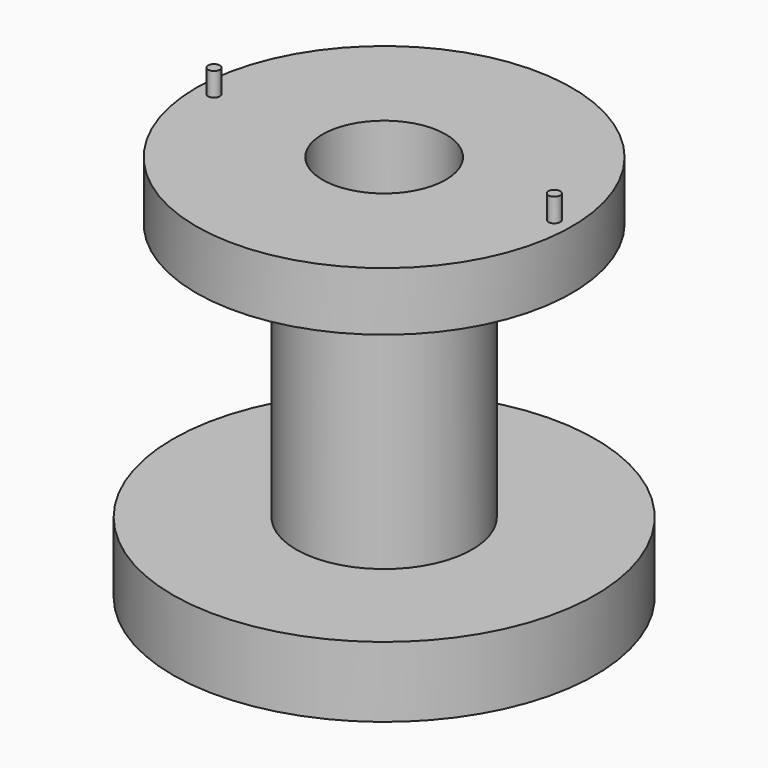
from build123d import *

# Parameters (mm, degrees)
F2_R     = 10.5
F3_DEPTH = 66.001
F4_R     = 1
F5_DEPTH = 4


with BuildPart() as f1:
    # F0 (on Front) → F1 (revolve)
    with BuildSketch(Plane.XZ):
        Polygon((-36, 0), (0, 0), (0, 66), (-32, 66), (-32, 56), (-15, 56), (-15, 12), (-36, 12), align=None)
    revolve(axis=Axis((0, 0, 33), (0, 0, -1)))

    # F2 (on face) → F3 (cut, through all)
    with BuildSketch(Plane.XY.offset(66)):
        Circle(F2_R)
    extrude(amount=-F3_DEPTH, mode=Mode.SUBTRACT)

    # F4 (on face) → F5 (join)
    with BuildSketch(Plane.XY.offset(66)):
        with Locations((-29, 0)):
            Circle(F4_R)
        with Locations((29, 0)):
            Circle(F4_R)
    extrude(amount=F5_DEPTH)


solid = f1.part
